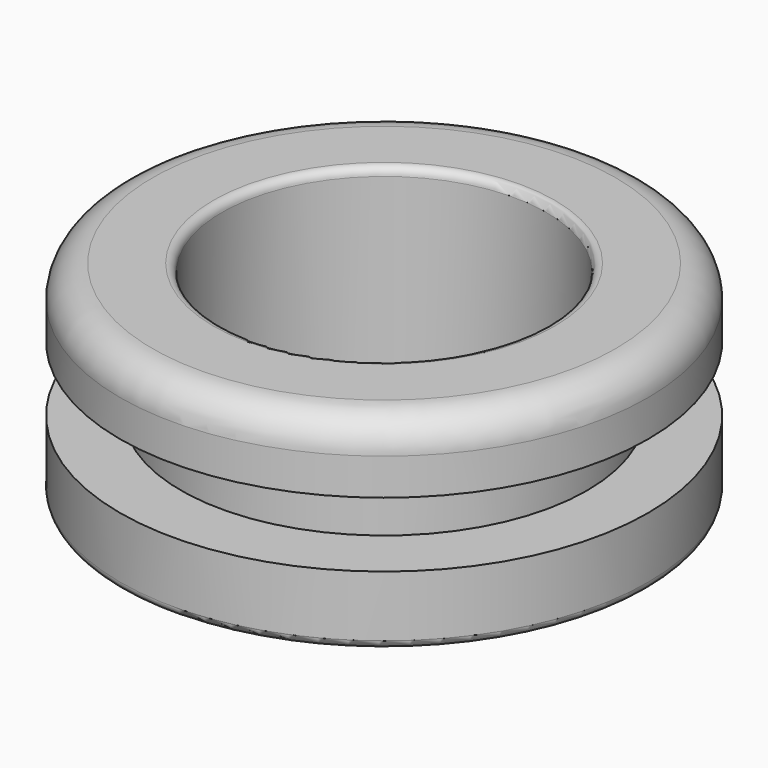
from build123d import *

# Parameters (mm, degrees)
F2_R = 0.8
F3_R = 0.2


with BuildPart() as f1:
    # F0 (on Front) → F1 (revolve)
    with BuildSketch(Plane.XZ):
        Polygon((4, 5), (4, 0), (6.5, 0), (6.5, 1.7), (5, 1.7), (5, 3.3), (6.5, 3.3), (6.5, 5), align=None)
    revolve(axis=Axis((0, 0, 3.666565), (0, 0, 1)))

    # F2
    f2_edges = [f1.edges().sort_by_distance(p)[0] for p in [
        (-6.5, 0, 5),
    ]]
    fillet(f2_edges, radius=F2_R)

    # F3
    f3_edges = [f1.edges().sort_by_distance(p)[0] for p in [
        (-4, 0, 5),
        (-4, 0, 0),
        (-6.5, 0, 0),
    ]]
    fillet(f3_edges, radius=F3_R)


solid = f1.part
